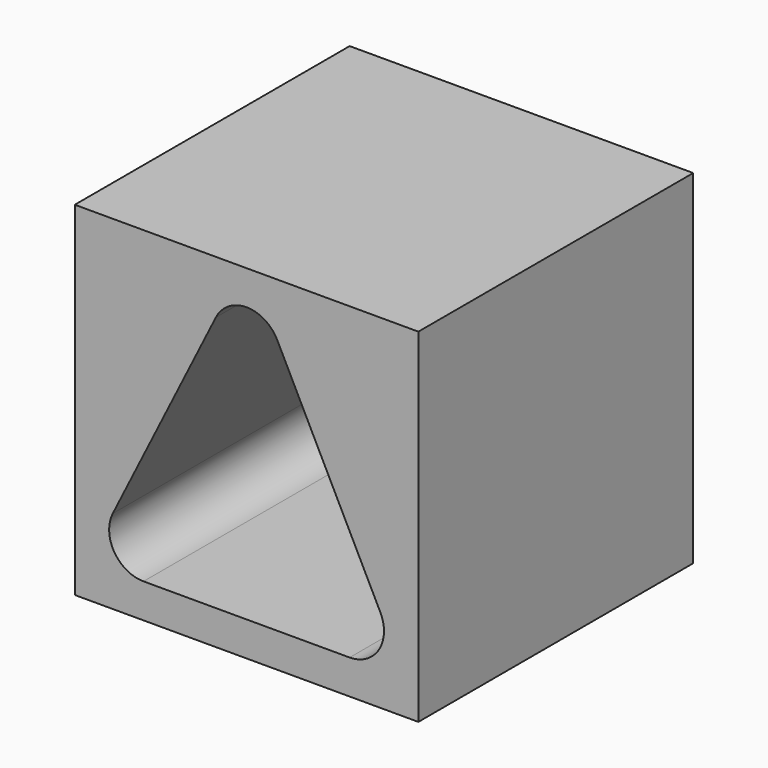
from build123d import *

# Parameters (mm, degrees)
F0_W     = 254
F0_H     = 254
F1_DEPTH = 254


with BuildPart() as f1:
    # F0 (on Front) → F1 (new body)
    with BuildSketch(Plane.XZ):
        with Locations((127, 127)):
            Rectangle(F0_W, F0_H)
        with BuildLine():
            ThreePointArc((50.8, 25.4), (29.193469, 37.44643), (28.081549, 62.159225))
            Line((28.081549, 62.159225), (104.281549, 214.559225))
            ThreePointArc((104.281549, 214.559225), (127, 228.6), (149.718451, 214.559225))
            Line((149.718451, 214.559225), (225.918451, 62.159225))
            ThreePointArc((225.918451, 62.159225), (224.806531, 37.44643), (203.2, 25.4))
            Line((203.2, 25.4), (50.8, 25.4))
        make_face(mode=Mode.SUBTRACT)
    extrude(amount=F1_DEPTH)


solid = f1.part
